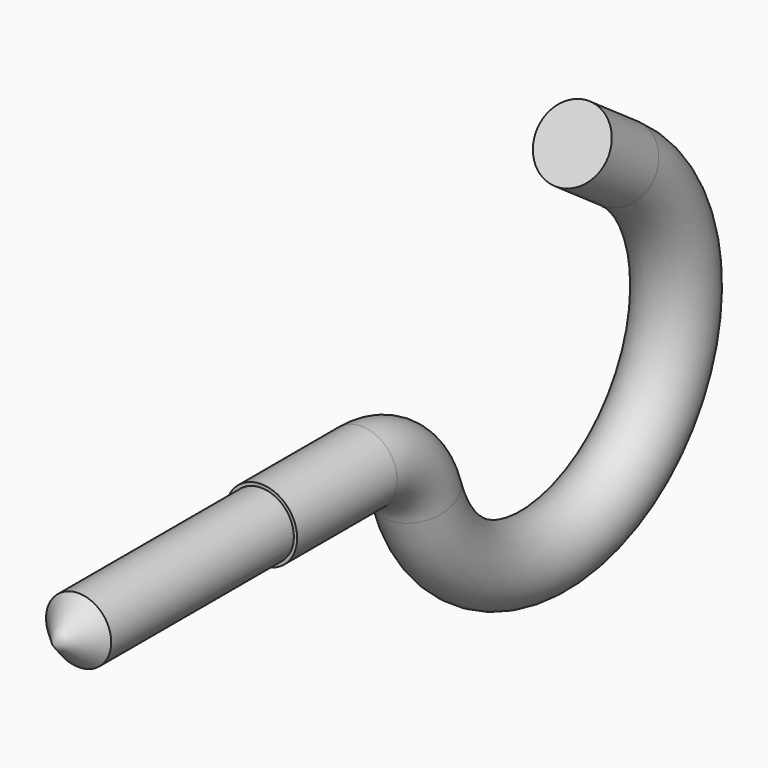
from build123d import *

# Parameters (mm, degrees)
SKETCH001_R  = 2.2
SKETCH002_R  = 2
PAD_DEPTH    = 16
CHAMFER_SIZE = 2


with BuildPart() as part:
    # Sweep: sweep along a path in Sketch
    with BuildLine(Plane.YZ) as sweep_path:
        Line((0, 0), (7.678787, 0))
        ThreePointArc((7.678787, 0), (10.279318, -0.850737), (11.874226, -3.073974))
        ThreePointArc((11.874226, -3.073974), (27.634223, -8.223634), (27.45048, 8.355351))
        Line((27.45048, 8.355351), (23.846219, 10.8791))
    # Sketch001 → Sweep (sweep)
    with BuildSketch(Plane.XZ):
        Circle(SKETCH001_R)
    sweep(path=sweep_path.line, is_frenet=True)

    # Sketch002 → Pad (new body)
    with BuildSketch(Plane.XZ):
        Circle(SKETCH002_R)
    extrude(amount=PAD_DEPTH)

    # Chamfer
    chamfer_edges = [part.edges().sort_by_distance(p)[0] for p in [
        (-2, -16, 0),
    ]]
    chamfer(chamfer_edges, length=CHAMFER_SIZE)


solid = part.part
